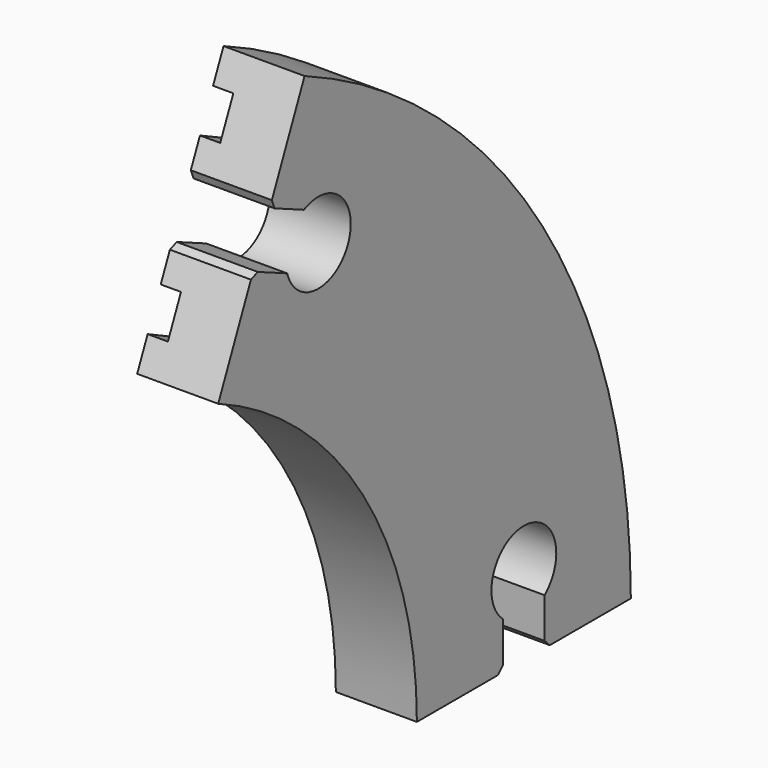
from build123d import *

# Parameters (mm, degrees)
F4_DEPTH = 12.7
F5_SIZE  = 1.016


with BuildPart() as f2:
    # F2: sweep along a path in F1
    with BuildLine(Plane.YZ) as f2_path:
        ThreePointArc((0, 0), (-13.9895526568, 47.0829736144), (-51.4187773904, 78.8881166537))
    # F0 (on Top) → F2 (sweep)
    with BuildSketch(Plane.XY):
        Polygon((-2.9826171882, -15.875), (-2.9826171882, -20.955), (9.7173828118, -20.955), (9.7173828118, 20.955), (-2.9826171882, 20.955), (-2.9826171882, 15.875), (0.1923828118, 15.875), (0.1923828118, 9.525), (-2.9826171882, 9.525), (-2.9826171882, -9.525), (0.1923828118, -9.525), (0.1923828118, -15.875), align=None)
    sweep(path=f2_path.line)

    # F3 (on face) → F4 (cut, through all)
    with BuildSketch(Plane.YZ.offset(9.7173828118)):
        with BuildLine():
            Line((-4.064, 7.3128193311), (-4.064, 0))
            Line((-4.064, 0), (4.064, 0))
            Line((4.064, 0), (4.064, 7.3128193311))
            ThreePointArc((4.064, 7.3128193311), (0, 18.542), (-4.064, 7.3128193311))
        make_face()
        with BuildLine():
            Line((-43.0877289811, 79.6543117793), (-49.7782573242, 82.6062868909))
            Line((-49.7782573242, 82.6062868909), (-53.0592974567, 75.1699464166))
            Line((-53.0592974567, 75.1699464166), (-46.3687691136, 72.217971305))
            ThreePointArc((-46.3687691136, 72.217971305), (-34.4546256835, 71.4032438515), (-43.0877289811, 79.6543117793))
        make_face()
    extrude(amount=-F4_DEPTH, mode=Mode.SUBTRACT)

    # F5
    f5_edges = [f2.edges().sort_by_distance(p)[0] for p in [
        (3.367383, -53.059297, 75.169946),
        (3.367383, -49.778257, 82.606287),
        (3.367383, 4.064, 0),
        (3.367383, -4.064, 0),
    ]]
    chamfer(f5_edges, length=F5_SIZE)


solid = f2.part
